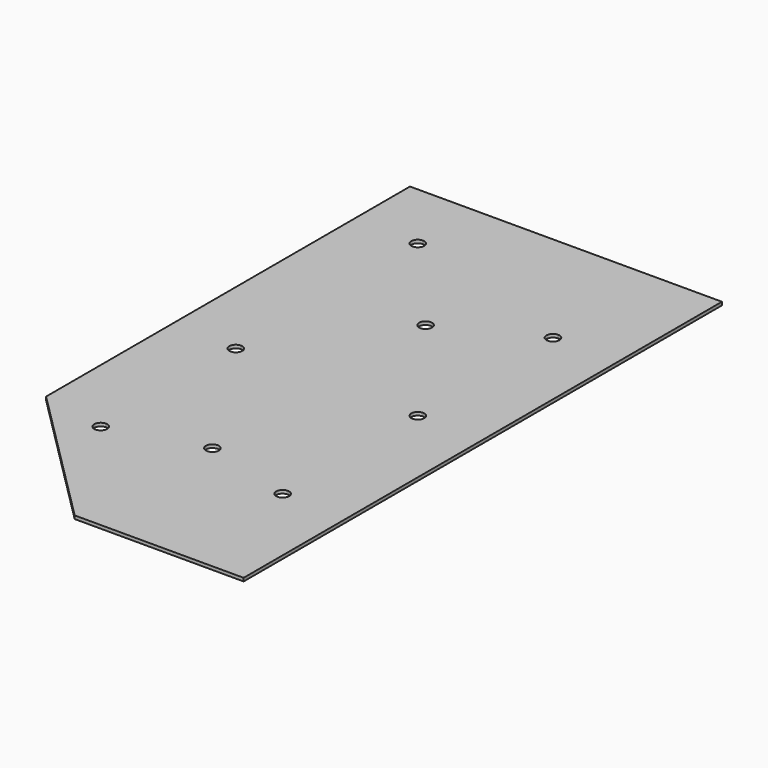
from build123d import *

# Parameters (mm, degrees)
F0_R     = 6.35
F1_DEPTH = 3.175


with BuildPart() as f1:
    # F0 (on Top) → F1 (new body)
    with BuildSketch(Plane.XY):
        Polygon((152.4, -152.4), (152.4, 292.1), (88.9, 292.1), (-88.9, 292.1), (-152.4, 292.1), (-152.4, -152.4), (-88.9, -215.9), (-12.7, -292.1), (12.7, -292.1), (152.4, -292.1), align=None)
        with BuildLine():
            ThreePointArc((-82.55, -165.1), (-84.409872, -169.590128), (-88.9, -171.45))
            ThreePointArc((-88.9, -171.45), (-93.390128, -169.590128), (-95.25, -165.1))
            ThreePointArc((-95.25, -165.1), (-93.390128, -160.609872), (-88.9, -158.75))
            ThreePointArc((-88.9, -158.75), (-84.409872, -160.609872), (-82.55, -165.1))
        make_face(mode=Mode.SUBTRACT)
        with BuildLine():
            ThreePointArc((88.9, -158.75), (93.390128, -160.609872), (95.25, -165.1))
            ThreePointArc((95.25, -165.1), (93.390128, -169.590128), (88.9, -171.45))
            ThreePointArc((88.9, -171.45), (84.409872, -169.590128), (82.55, -165.1))
            ThreePointArc((82.55, -165.1), (84.409872, -160.609872), (88.9, -158.75))
        make_face(mode=Mode.SUBTRACT)
        with Locations((0, -139.7)):
            Circle(F0_R, mode=Mode.SUBTRACT)
        with BuildLine():
            ThreePointArc((-88.9, 6.35), (-84.409872, 4.490128), (-82.55, 0))
            ThreePointArc((-82.55, 0), (-84.409872, -4.490128), (-88.9, -6.35))
            ThreePointArc((-88.9, -6.35), (-95.25, 0), (-88.9, 6.35))
        make_face(mode=Mode.SUBTRACT)
        with BuildLine():
            ThreePointArc((-88.9, 215.9), (-95.25, 222.25), (-88.9, 228.6))
            ThreePointArc((-88.9, 228.6), (-84.409872, 226.740128), (-82.55, 222.25))
            ThreePointArc((-82.55, 222.25), (-84.409872, 217.759872), (-88.9, 215.9))
        make_face(mode=Mode.SUBTRACT)
        with Locations((0, 120.65)):
            Circle(F0_R, mode=Mode.SUBTRACT)
        with BuildLine():
            ThreePointArc((88.9, 6.35), (93.390128, 4.490128), (95.25, 0))
            ThreePointArc((95.25, 0), (93.390128, -4.490128), (88.9, -6.35))
            ThreePointArc((88.9, -6.35), (82.55, 0), (88.9, 6.35))
        make_face(mode=Mode.SUBTRACT)
        with BuildLine():
            ThreePointArc((88.9, 158.75), (82.55, 165.1), (88.9, 171.45))
            ThreePointArc((88.9, 171.45), (93.390128, 169.590128), (95.25, 165.1))
            ThreePointArc((95.25, 165.1), (93.390128, 160.609872), (88.9, 158.75))
        make_face(mode=Mode.SUBTRACT)
    extrude(amount=F1_DEPTH)


solid = f1.part
